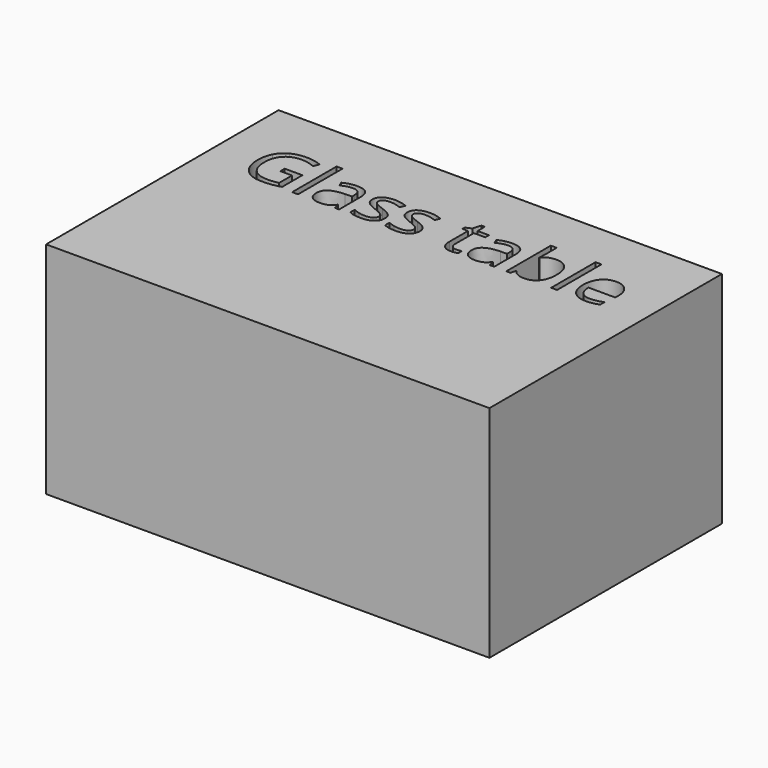
from build123d import *

# Parameters (mm, degrees)
F0_W     = 1511.3
F0_H     = 990.6
F0_W_2   = 20.1964088736
F0_H_2   = 189.2391837235
F1_DEPTH = 749.3


with BuildPart() as f1:
    # F0 (on Top) → F1 (new body)
    with BuildSketch(Plane.XY):
        Rectangle(F0_W, F0_H)
        with BuildLine():
            Line((-532.3446500797, 223.7381575671), (-532.3446500797, 242.222346806))
            Line((-532.3446500797, 242.222346806), (-471.9110797892, 242.222346806))
            Line((-471.9110797892, 242.222346806), (-471.9110797892, 155.7552552507))
            add(Edge.make_bspline(
                [(-471.9110797892, 155.7552552507), (-486.036891776, 151.2412216681), (-500.629672754, 148.925833753)],
                knots=[0, 0, 0, 1, 1, 1], degree=2))
            add(Edge.make_bspline(
                [(-500.629672754, 148.925833753), (-515.2224537321, 146.6104458378), (-534.4460105405, 146.6104458378)],
                knots=[0, 0, 0, 1, 1, 1], degree=2))
            add(Edge.make_bspline(
                [(-534.4460105405, 146.6104458378), (-574.7999142052, 146.6104458378), (-597.2922539527, 170.6398918483)],
                knots=[0, 0, 0, 1, 1, 1], degree=2))
            add(Edge.make_bspline(
                [(-597.2922539527, 170.6398918483), (-619.7845937002, 194.6693378588), (-619.7845937002, 237.9417977191)],
                knots=[0, 0, 0, 1, 1, 1], degree=2))
            add(Edge.make_bspline(
                [(-619.7845937002, 237.9417977191), (-619.7845937002, 265.6875386187), (-608.6551660743, 286.5454868967)],
                knots=[0, 0, 0, 1, 1, 1], degree=2))
            add(Edge.make_bspline(
                [(-608.6551660743, 286.5454868967), (-597.5257384483, 307.4034351747), (-576.6094190465, 318.3966635115)],
                knots=[0, 0, 0, 1, 1, 1], degree=2))
            add(Edge.make_bspline(
                [(-576.6094190465, 318.3966635115), (-555.6930996446, 329.3898918483), (-527.6360460841, 329.3898918483)],
                knots=[0, 0, 0, 1, 1, 1], degree=2))
            add(Edge.make_bspline(
                [(-527.6360460841, 329.3898918483), (-499.1509376149, 329.3898918483), (-474.5961514892, 318.9609177093)],
                knots=[0, 0, 0, 1, 1, 1], degree=2))
            Line((-474.5961514892, 318.9609177093), (-482.6124525064, 300.7102129661))
            add(Edge.make_bspline(
                [(-482.6124525064, 300.7102129661), (-506.7002696409, 310.9057026094), (-528.9591248928, 310.9057026094)],
                knots=[0, 0, 0, 1, 1, 1], degree=2))
            add(Edge.make_bspline(
                [(-528.9591248928, 310.9057026094), (-561.413469788, 310.9057026094), (-579.6641745312, 291.5848605945)],
                knots=[0, 0, 0, 1, 1, 1], degree=2))
            add(Edge.make_bspline(
                [(-579.6641745312, 291.5848605945), (-597.9148792744, 272.2640185795), (-597.9148792744, 237.9417977191)],
                knots=[0, 0, 0, 1, 1, 1], degree=2))
            add(Edge.make_bspline(
                [(-597.9148792744, 237.9417977191), (-597.9148792744, 201.9462713066), (-580.3451709768, 183.3453398199)],
                knots=[0, 0, 0, 1, 1, 1], degree=2))
            add(Edge.make_bspline(
                [(-580.3451709768, 183.3453398199), (-562.7754626792, 164.7444083332), (-528.7256403971, 164.7444083332)],
                knots=[0, 0, 0, 1, 1, 1], degree=2))
            add(Edge.make_bspline(
                [(-528.7256403971, 164.7444083332), (-510.2414511582, 164.7444083332), (-492.6133717367, 169.0249574201)],
                knots=[0, 0, 0, 1, 1, 1], degree=2))
            Line((-492.6133717367, 169.0249574201), (-492.6133717367, 223.7381575671))
            Line((-492.6133717367, 223.7381575671), (-532.3446500797, 223.7381575671))
        make_face(mode=Mode.SUBTRACT)
        with Locations((-422.1983392573, 243.6816249038)):
            Rectangle(F0_W_2, F0_H_2, mode=Mode.SUBTRACT)
        with BuildLine():
            Line((-272.3596641745, 149.0620330421), (-287.3415859787, 149.0620330421))
            Line((-287.3415859787, 149.0620330421), (-291.3497364873, 168.0521053549))
            Line((-291.3497364873, 168.0521053549), (-292.3225885525, 168.0521053549))
            add(Edge.make_bspline(
                [(-292.3225885525, 168.0521053549), (-302.2845937002, 155.521770755), (-312.188227724, 151.0661082964)],
                knots=[0, 0, 0, 1, 1, 1], degree=2))
            add(Edge.make_bspline(
                [(-312.188227724, 151.0661082964), (-322.0918617478, 146.6104458378), (-336.9570413041, 146.6104458378)],
                knots=[0, 0, 0, 1, 1, 1], degree=2))
            add(Edge.make_bspline(
                [(-336.9570413041, 146.6104458378), (-356.7643093516, 146.6104458378), (-368.0104792254, 156.8448495637)],
                knots=[0, 0, 0, 1, 1, 1], degree=2))
            add(Edge.make_bspline(
                [(-368.0104792254, 156.8448495637), (-379.2566490992, 167.0792532897), (-379.2566490992, 185.913669272)],
                knots=[0, 0, 0, 1, 1, 1], degree=2))
            add(Edge.make_bspline(
                [(-379.2566490992, 185.913669272), (-379.2566490992, 226.2675729367), (-314.6981860522, 228.2132770671)],
                knots=[0, 0, 0, 1, 1, 1], degree=2))
            Line((-314.6981860522, 228.2132770671), (-292.0891040569, 228.9526446366))
            Line((-292.0891040569, 228.9526446366), (-292.0891040569, 237.2413442322))
            add(Edge.make_bspline(
                [(-292.0891040569, 237.2413442322), (-292.0891040569, 252.9237195233), (-298.8212403481, 260.395223384)],
                knots=[0, 0, 0, 1, 1, 1], degree=2))
            add(Edge.make_bspline(
                [(-298.8212403481, 260.395223384), (-305.5533766393, 267.8667272448), (-320.4185561956, 267.8667272448)],
                knots=[0, 0, 0, 1, 1, 1], degree=2))
            add(Edge.make_bspline(
                [(-320.4185561956, 267.8667272448), (-337.0737835519, 267.8667272448), (-358.0873881603, 257.6712376015)],
                knots=[0, 0, 0, 1, 1, 1], degree=2))
            Line((-358.0873881603, 257.6712376015), (-364.3136413776, 273.1201283969))
            add(Edge.make_bspline(
                [(-364.3136413776, 273.1201283969), (-354.4683784778, 278.4513577142), (-342.7357825714, 281.4866561577)],
                knots=[0, 0, 0, 1, 1, 1], degree=2))
            add(Edge.make_bspline(
                [(-342.7357825714, 281.4866561577), (-331.003186665, 284.5219546011), (-319.1733055522, 284.5219546011)],
                knots=[0, 0, 0, 1, 1, 1], degree=2))
            add(Edge.make_bspline(
                [(-319.1733055522, 284.5219546011), (-295.357886996, 284.5219546011), (-283.8587755852, 273.956781173)],
                knots=[0, 0, 0, 1, 1, 1], degree=2))
            add(Edge.make_bspline(
                [(-283.8587755852, 273.956781173), (-272.3596641745, 263.3916077449), (-272.3596641745, 240.04315818)],
                knots=[0, 0, 0, 1, 1, 1], degree=2))
            Line((-272.3596641745, 240.04315818), (-272.3596641745, 149.0620330421))
        make_face(mode=Mode.SUBTRACT)
        with BuildLine():
            add(Edge.make_bspline(
                [(-153.1658291457, 207.4331569543), (-144.8382154676, 198.6774883675), (-144.8382154676, 185.4077861981)],
                knots=[0, 0, 0, 1, 1, 1], degree=2))
            add(Edge.make_bspline(
                [(-144.8382154676, 185.4077861981), (-144.8382154676, 166.8068547114), (-158.6916288761, 156.7086502746)],
                knots=[0, 0, 0, 1, 1, 1], degree=2))
            add(Edge.make_bspline(
                [(-158.6916288761, 156.7086502746), (-172.5450422846, 146.6104458378), (-197.6057114843, 146.6104458378)],
                knots=[0, 0, 0, 1, 1, 1], degree=2))
            add(Edge.make_bspline(
                [(-197.6057114843, 146.6104458378), (-224.1062017404, 146.6104458378), (-238.9324672141, 155.0158876811)],
                knots=[0, 0, 0, 1, 1, 1], degree=2))
            Line((-238.9324672141, 155.0158876811), (-238.9324672141, 173.7335614157))
            add(Edge.make_bspline(
                [(-238.9324672141, 173.7335614157), (-229.3206888099, 168.8693010896), (-218.3274604731, 166.0869441832)],
                knots=[0, 0, 0, 1, 1, 1], degree=2))
            add(Edge.make_bspline(
                [(-218.3274604731, 166.0869441832), (-207.3342321363, 163.3045872767), (-197.0998284103, 163.3045872767)],
                knots=[0, 0, 0, 1, 1, 1], degree=2))
            add(Edge.make_bspline(
                [(-197.0998284103, 163.3045872767), (-181.3007108714, 163.3045872767), (-172.7979838215, 168.3439609744)],
                knots=[0, 0, 0, 1, 1, 1], degree=2))
            add(Edge.make_bspline(
                [(-172.7979838215, 168.3439609744), (-164.2952567717, 173.3833346722), (-164.2952567717, 183.734480646)],
                knots=[0, 0, 0, 1, 1, 1], degree=2))
            add(Edge.make_bspline(
                [(-164.2952567717, 183.734480646), (-164.2952567717, 191.5172971676), (-171.0273930629, 197.0430968979)],
                knots=[0, 0, 0, 1, 1, 1], degree=2))
            add(Edge.make_bspline(
                [(-171.0273930629, 197.0430968979), (-177.7595293541, 202.5688966283), (-197.3722269886, 210.1182286543)],
                knots=[0, 0, 0, 1, 1, 1], degree=2))
            add(Edge.make_bspline(
                [(-197.3722269886, 210.1182286543), (-215.9731584753, 217.0449353585), (-223.8143461208, 222.2205083454)],
                knots=[0, 0, 0, 1, 1, 1], degree=2))
            add(Edge.make_bspline(
                [(-223.8143461208, 222.2205083454), (-231.6555337664, 227.3960813323), (-235.4885709033, 233.9531042518)],
                knots=[0, 0, 0, 1, 1, 1], degree=2))
            add(Edge.make_bspline(
                [(-235.4885709033, 233.9531042518), (-239.3216080402, 240.5101271713), (-239.3216080402, 249.6160225016)],
                knots=[0, 0, 0, 1, 1, 1], degree=2))
            add(Edge.make_bspline(
                [(-239.3216080402, 249.6160225016), (-239.3216080402, 265.9210231144), (-226.0519058708, 275.3576881469)],
                knots=[0, 0, 0, 1, 1, 1], degree=2))
            add(Edge.make_bspline(
                [(-226.0519058708, 275.3576881469), (-212.7822037014, 284.7943531794), (-189.7061527148, 284.7943531794)],
                knots=[0, 0, 0, 1, 1, 1], degree=2))
            add(Edge.make_bspline(
                [(-189.7061527148, 284.7943531794), (-168.1866650325, 284.7943531794), (-147.6011153328, 276.0386845925)],
                knots=[0, 0, 0, 1, 1, 1], degree=2))
            Line((-147.6011153328, 276.0386845925), (-154.8002206153, 259.6169417319))
            add(Edge.make_bspline(
                [(-154.8002206153, 259.6169417319), (-174.8409731585, 267.8667272448), (-191.1459737713, 267.8667272448)],
                knots=[0, 0, 0, 1, 1, 1], degree=2))
            add(Edge.make_bspline(
                [(-191.1459737713, 267.8667272448), (-205.5052702537, 267.8667272448), (-212.8016607427, 263.3721507036)],
                knots=[0, 0, 0, 1, 1, 1], degree=2))
            add(Edge.make_bspline(
                [(-212.8016607427, 263.3721507036), (-220.0980512318, 258.8775741623), (-220.0980512318, 250.9780153929)],
                knots=[0, 0, 0, 1, 1, 1], degree=2))
            add(Edge.make_bspline(
                [(-220.0980512318, 250.9780153929), (-220.0980512318, 245.6078719929), (-217.3546084079, 241.8526630212)],
                knots=[0, 0, 0, 1, 1, 1], degree=2))
            add(Edge.make_bspline(
                [(-217.3546084079, 241.8526630212), (-214.611165584, 238.0974540496), (-208.5405686971, 234.6924718213)],
                knots=[0, 0, 0, 1, 1, 1], degree=2))
            add(Edge.make_bspline(
                [(-208.5405686971, 234.6924718213), (-202.4699718103, 231.2874895931), (-185.1921191322, 224.8277518802)],
                knots=[0, 0, 0, 1, 1, 1], degree=2))
            add(Edge.make_bspline(
                [(-185.1921191322, 224.8277518802), (-161.4934428239, 216.1888255412), (-153.1658291457, 207.4331569543)],
                knots=[0, 0, 0, 1, 1, 1], degree=2))
        make_face(mode=Mode.SUBTRACT)
        with BuildLine():
            add(Edge.make_bspline(
                [(-34.361134943, 207.4331569543), (-26.0335212649, 198.6774883675), (-26.0335212649, 185.4077861981)],
                knots=[0, 0, 0, 1, 1, 1], degree=2))
            add(Edge.make_bspline(
                [(-26.0335212649, 185.4077861981), (-26.0335212649, 166.8068547114), (-39.8869346734, 156.7086502746)],
                knots=[0, 0, 0, 1, 1, 1], degree=2))
            add(Edge.make_bspline(
                [(-39.8869346734, 156.7086502746), (-53.7403480819, 146.6104458378), (-78.8010172815, 146.6104458378)],
                knots=[0, 0, 0, 1, 1, 1], degree=2))
            add(Edge.make_bspline(
                [(-78.8010172815, 146.6104458378), (-105.3015075377, 146.6104458378), (-120.1277730114, 155.0158876811)],
                knots=[0, 0, 0, 1, 1, 1], degree=2))
            Line((-120.1277730114, 155.0158876811), (-120.1277730114, 173.7335614157))
            add(Edge.make_bspline(
                [(-120.1277730114, 173.7335614157), (-110.5159946072, 168.8693010896), (-99.5227662704, 166.0869441832)],
                knots=[0, 0, 0, 1, 1, 1], degree=2))
            add(Edge.make_bspline(
                [(-99.5227662704, 166.0869441832), (-88.5295379336, 163.3045872767), (-78.2951342076, 163.3045872767)],
                knots=[0, 0, 0, 1, 1, 1], degree=2))
            add(Edge.make_bspline(
                [(-78.2951342076, 163.3045872767), (-62.4960166687, 163.3045872767), (-53.9932896188, 168.3439609744)],
                knots=[0, 0, 0, 1, 1, 1], degree=2))
            add(Edge.make_bspline(
                [(-53.9932896188, 168.3439609744), (-45.4905625689, 173.3833346722), (-45.4905625689, 183.734480646)],
                knots=[0, 0, 0, 1, 1, 1], degree=2))
            add(Edge.make_bspline(
                [(-45.4905625689, 183.734480646), (-45.4905625689, 191.5172971676), (-52.2226988602, 197.0430968979)],
                knots=[0, 0, 0, 1, 1, 1], degree=2))
            add(Edge.make_bspline(
                [(-52.2226988602, 197.0430968979), (-58.9548351514, 202.5688966283), (-78.5675327859, 210.1182286543)],
                knots=[0, 0, 0, 1, 1, 1], degree=2))
            add(Edge.make_bspline(
                [(-78.5675327859, 210.1182286543), (-97.1684642726, 217.0449353585), (-105.0096519181, 222.2205083454)],
                knots=[0, 0, 0, 1, 1, 1], degree=2))
            add(Edge.make_bspline(
                [(-105.0096519181, 222.2205083454), (-112.8508395637, 227.3960813323), (-116.6838767006, 233.9531042518)],
                knots=[0, 0, 0, 1, 1, 1], degree=2))
            add(Edge.make_bspline(
                [(-116.6838767006, 233.9531042518), (-120.5169138375, 240.5101271713), (-120.5169138375, 249.6160225016)],
                knots=[0, 0, 0, 1, 1, 1], degree=2))
            add(Edge.make_bspline(
                [(-120.5169138375, 249.6160225016), (-120.5169138375, 265.9210231144), (-107.2472116681, 275.3576881469)],
                knots=[0, 0, 0, 1, 1, 1], degree=2))
            add(Edge.make_bspline(
                [(-107.2472116681, 275.3576881469), (-93.9775094987, 284.7943531794), (-70.9014585121, 284.7943531794)],
                knots=[0, 0, 0, 1, 1, 1], degree=2))
            add(Edge.make_bspline(
                [(-70.9014585121, 284.7943531794), (-49.3819708298, 284.7943531794), (-28.79642113, 276.0386845925)],
                knots=[0, 0, 0, 1, 1, 1], degree=2))
            Line((-28.79642113, 276.0386845925), (-35.9955264126, 259.6169417319))
            add(Edge.make_bspline(
                [(-35.9955264126, 259.6169417319), (-56.0362789558, 267.8667272448), (-72.3412795686, 267.8667272448)],
                knots=[0, 0, 0, 1, 1, 1], degree=2))
            add(Edge.make_bspline(
                [(-72.3412795686, 267.8667272448), (-86.700576051, 267.8667272448), (-93.99696654, 263.3721507036)],
                knots=[0, 0, 0, 1, 1, 1], degree=2))
            add(Edge.make_bspline(
                [(-93.99696654, 263.3721507036), (-101.293357029, 258.8775741623), (-101.293357029, 250.9780153929)],
                knots=[0, 0, 0, 1, 1, 1], degree=2))
            add(Edge.make_bspline(
                [(-101.293357029, 250.9780153929), (-101.293357029, 245.6078719929), (-98.5499142052, 241.8526630212)],
                knots=[0, 0, 0, 1, 1, 1], degree=2))
            add(Edge.make_bspline(
                [(-98.5499142052, 241.8526630212), (-95.8064713813, 238.0974540496), (-89.7358744944, 234.6924718213)],
                knots=[0, 0, 0, 1, 1, 1], degree=2))
            add(Edge.make_bspline(
                [(-89.7358744944, 234.6924718213), (-83.6652776076, 231.2874895931), (-66.3874249295, 224.8277518802)],
                knots=[0, 0, 0, 1, 1, 1], degree=2))
            add(Edge.make_bspline(
                [(-66.3874249295, 224.8277518802), (-42.6887486212, 216.1888255412), (-34.361134943, 207.4331569543)],
                knots=[0, 0, 0, 1, 1, 1], degree=2))
        make_face(mode=Mode.SUBTRACT)
        with BuildLine():
            add(Edge.make_bspline(
                [(98.8806839073, 169.7448679483), (104.6010540507, 163.3045872767), (114.5630591984, 163.3045872767)],
                knots=[0, 0, 0, 1, 1, 1], degree=2))
            add(Edge.make_bspline(
                [(114.5630591984, 163.3045872767), (119.9332025984, 163.3045872767), (124.9142051722, 164.0828689288)],
                knots=[0, 0, 0, 1, 1, 1], degree=2))
            add(Edge.make_bspline(
                [(124.9142051722, 164.0828689288), (129.895207746, 164.861150581), (132.8137639417, 165.7172603984)],
                knots=[0, 0, 0, 1, 1, 1], degree=2))
            Line((132.8137639417, 165.7172603984), (132.8137639417, 150.2683696029))
            add(Edge.make_bspline(
                [(132.8137639417, 150.2683696029), (129.5449810026, 148.7118062986), (123.1630714548, 147.6611260682)],
                knots=[0, 0, 0, 1, 1, 1], degree=2))
            add(Edge.make_bspline(
                [(123.1630714548, 147.6611260682), (116.7811619071, 146.6104458378), (111.6445030028, 146.6104458378)],
                knots=[0, 0, 0, 1, 1, 1], degree=2))
            add(Edge.make_bspline(
                [(111.6445030028, 146.6104458378), (73.0028189729, 146.6104458378), (73.0028189729, 187.3534903285)],
                knots=[0, 0, 0, 1, 1, 1], degree=2))
            Line((73.0028189729, 187.3534903285), (73.0028189729, 266.6603906839))
            Line((73.0028189729, 266.6603906839), (53.8960044123, 266.6603906839))
            Line((53.8960044123, 266.6603906839), (53.8960044123, 276.388911336))
            Line((53.8960044123, 276.388911336), (73.0028189729, 284.7943531794))
            Line((73.0028189729, 284.7943531794), (81.4860889815, 313.2405475659))
            Line((81.4860889815, 313.2405475659), (93.1603137639, 313.2405475659))
            Line((93.1603137639, 313.2405475659), (93.1603137639, 282.342765975))
            Line((93.1603137639, 282.342765975), (131.8409118765, 282.342765975))
            Line((131.8409118765, 282.342765975), (131.8409118765, 266.6603906839))
            Line((131.8409118765, 266.6603906839), (93.1603137639, 266.6603906839))
            Line((93.1603137639, 266.6603906839), (93.1603137639, 188.2096001459))
            add(Edge.make_bspline(
                [(93.1603137639, 188.2096001459), (93.1603137639, 176.18514862), (98.8806839073, 169.7448679483)],
                knots=[0, 0, 0, 1, 1, 1], degree=2))
        make_face(mode=Mode.SUBTRACT)
        with BuildLine():
            Line((256.3659762226, 149.0620330421), (241.3840544184, 149.0620330421))
            Line((241.3840544184, 149.0620330421), (237.3759039098, 168.0521053549))
            Line((237.3759039098, 168.0521053549), (236.4030518446, 168.0521053549))
            add(Edge.make_bspline(
                [(236.4030518446, 168.0521053549), (226.4410466969, 155.521770755), (216.5374126731, 151.0661082964)],
                knots=[0, 0, 0, 1, 1, 1], degree=2))
            add(Edge.make_bspline(
                [(216.5374126731, 151.0661082964), (206.6337786493, 146.6104458378), (191.768599093, 146.6104458378)],
                knots=[0, 0, 0, 1, 1, 1], degree=2))
            add(Edge.make_bspline(
                [(191.768599093, 146.6104458378), (171.9613310455, 146.6104458378), (160.7151611717, 156.8448495637)],
                knots=[0, 0, 0, 1, 1, 1], degree=2))
            add(Edge.make_bspline(
                [(160.7151611717, 156.8448495637), (149.468991298, 167.0792532897), (149.468991298, 185.913669272)],
                knots=[0, 0, 0, 1, 1, 1], degree=2))
            add(Edge.make_bspline(
                [(149.468991298, 185.913669272), (149.468991298, 226.2675729367), (214.0274543449, 228.2132770671)],
                knots=[0, 0, 0, 1, 1, 1], degree=2))
            Line((214.0274543449, 228.2132770671), (236.6365363402, 228.9526446366))
            Line((236.6365363402, 228.9526446366), (236.6365363402, 237.2413442322))
            add(Edge.make_bspline(
                [(236.6365363402, 237.2413442322), (236.6365363402, 252.9237195233), (229.904400049, 260.395223384)],
                knots=[0, 0, 0, 1, 1, 1], degree=2))
            add(Edge.make_bspline(
                [(229.904400049, 260.395223384), (223.1722637578, 267.8667272448), (208.3070842015, 267.8667272448)],
                knots=[0, 0, 0, 1, 1, 1], degree=2))
            add(Edge.make_bspline(
                [(208.3070842015, 267.8667272448), (191.6518568452, 267.8667272448), (170.6382522368, 257.6712376015)],
                knots=[0, 0, 0, 1, 1, 1], degree=2))
            Line((170.6382522368, 257.6712376015), (164.4119990195, 273.1201283969))
            add(Edge.make_bspline(
                [(164.4119990195, 273.1201283969), (174.2572619194, 278.4513577142), (185.9898578257, 281.4866561577)],
                knots=[0, 0, 0, 1, 1, 1], degree=2))
            add(Edge.make_bspline(
                [(185.9898578257, 281.4866561577), (197.7224537321, 284.5219546011), (209.552334845, 284.5219546011)],
                knots=[0, 0, 0, 1, 1, 1], degree=2))
            add(Edge.make_bspline(
                [(209.552334845, 284.5219546011), (233.3677534012, 284.5219546011), (244.8668648119, 273.956781173)],
                knots=[0, 0, 0, 1, 1, 1], degree=2))
            add(Edge.make_bspline(
                [(244.8668648119, 273.956781173), (256.3659762226, 263.3916077449), (256.3659762226, 240.04315818)],
                knots=[0, 0, 0, 1, 1, 1], degree=2))
            Line((256.3659762226, 240.04315818), (256.3659762226, 149.0620330421))
        make_face(mode=Mode.SUBTRACT)
        with BuildLine():
            add(Edge.make_bspline(
                [(318.1226253217, 264.5979443057), (332.2095232259, 284.5219546011), (359.9552641255, 284.5219546011)],
                knots=[0, 0, 0, 1, 1, 1], degree=2))
            add(Edge.make_bspline(
                [(359.9552641255, 284.5219546011), (386.222269886, 284.5219546011), (400.7566797402, 266.5825625187)],
                knots=[0, 0, 0, 1, 1, 1], degree=2))
            add(Edge.make_bspline(
                [(400.7566797402, 266.5825625187), (415.2910895943, 248.6431704364), (415.2910895943, 215.8385987977)],
                knots=[0, 0, 0, 1, 1, 1], degree=2))
            add(Edge.make_bspline(
                [(415.2910895943, 215.8385987977), (415.2910895943, 182.9951130764), (400.6399374923, 164.8027794571)],
                knots=[0, 0, 0, 1, 1, 1], degree=2))
            add(Edge.make_bspline(
                [(400.6399374923, 164.8027794571), (385.9887853904, 146.6104458378), (359.9552641255, 146.6104458378)],
                knots=[0, 0, 0, 1, 1, 1], degree=2))
            add(Edge.make_bspline(
                [(359.9552641255, 146.6104458378), (346.9190464518, 146.6104458378), (336.1593026106, 151.4163350399)],
                knots=[0, 0, 0, 1, 1, 1], degree=2))
            add(Edge.make_bspline(
                [(336.1593026106, 151.4163350399), (325.3995587695, 156.222224242), (318.1226253217, 166.2231434723)],
                knots=[0, 0, 0, 1, 1, 1], degree=2))
            Line((318.1226253217, 166.2231434723), (316.6438901826, 166.2231434723))
            Line((316.6438901826, 166.2231434723), (312.4022551783, 149.0620330421))
            Line((312.4022551783, 149.0620330421), (297.9262164481, 149.0620330421))
            Line((297.9262164481, 149.0620330421), (297.9262164481, 338.3012167656))
            Line((297.9262164481, 338.3012167656), (318.1226253217, 338.3012167656))
            Line((318.1226253217, 338.3012167656), (318.1226253217, 292.3047711227))
            add(Edge.make_bspline(
                [(318.1226253217, 292.3047711227), (318.1226253217, 276.8558803273), (317.1497732565, 264.5979443057)],
                knots=[0, 0, 0, 1, 1, 1], degree=2))
            Line((317.1497732565, 264.5979443057), (318.1226253217, 264.5979443057))
        make_face(mode=Mode.SUBTRACT)
        with Locations((460.6454528741, 243.6816249038)):
            Rectangle(F0_W_2, F0_H_2, mode=Mode.SUBTRACT)
        with BuildLine():
            add(Edge.make_bspline(
                [(592.894962618, 148.6339781334), (583.361012379, 146.6104458378), (569.8578257139, 146.6104458378)],
                knots=[0, 0, 0, 1, 1, 1], degree=2))
            add(Edge.make_bspline(
                [(569.8578257139, 146.6104458378), (540.3220370143, 146.6104458378), (523.2192977081, 164.6276660853)],
                knots=[0, 0, 0, 1, 1, 1], degree=2))
            add(Edge.make_bspline(
                [(523.2192977081, 164.6276660853), (506.1165584018, 182.6448863329), (506.1165584018, 214.5933481542)],
                knots=[0, 0, 0, 1, 1, 1], degree=2))
            add(Edge.make_bspline(
                [(506.1165584018, 214.5933481542), (506.1165584018, 246.8531226364), (521.9935041059, 265.8237379079)],
                knots=[0, 0, 0, 1, 1, 1], degree=2))
            add(Edge.make_bspline(
                [(521.9935041059, 265.8237379079), (537.87044981, 284.7943531794), (564.6433386444, 284.7943531794)],
                knots=[0, 0, 0, 1, 1, 1], degree=2))
            add(Edge.make_bspline(
                [(564.6433386444, 284.7943531794), (589.6650937615, 284.7943531794), (604.2578747396, 268.3142391948)],
                knots=[0, 0, 0, 1, 1, 1], degree=2))
            add(Edge.make_bspline(
                [(604.2578747396, 268.3142391948), (618.8506557176, 251.8341252102), (618.8506557176, 224.8277518802)],
                knots=[0, 0, 0, 1, 1, 1], degree=2))
            Line((618.8506557176, 224.8277518802), (618.8506557176, 212.0639327847))
            Line((618.8506557176, 212.0639327847), (527.052334845, 212.0639327847))
            add(Edge.make_bspline(
                [(527.052334845, 212.0639327847), (527.6749601667, 188.598740972), (538.9211300404, 176.4380901569)],
                knots=[0, 0, 0, 1, 1, 1], degree=2))
            add(Edge.make_bspline(
                [(538.9211300404, 176.4380901569), (550.1672999142, 164.2774393419), (570.5971932835, 164.2774393419)],
                knots=[0, 0, 0, 1, 1, 1], degree=2))
            add(Edge.make_bspline(
                [(570.5971932835, 164.2774393419), (592.1166809658, 164.2774393419), (613.1302855742, 173.2665924244)],
                knots=[0, 0, 0, 1, 1, 1], degree=2))
            Line((613.1302855742, 173.2665924244), (613.1302855742, 155.2493721768))
            add(Edge.make_bspline(
                [(613.1302855742, 155.2493721768), (602.428912857, 150.657510429), (592.894962618, 148.6339781334)],
                knots=[0, 0, 0, 1, 1, 1], degree=2))
        make_face(mode=Mode.SUBTRACT)
    extrude(amount=F1_DEPTH)


solid = f1.part
